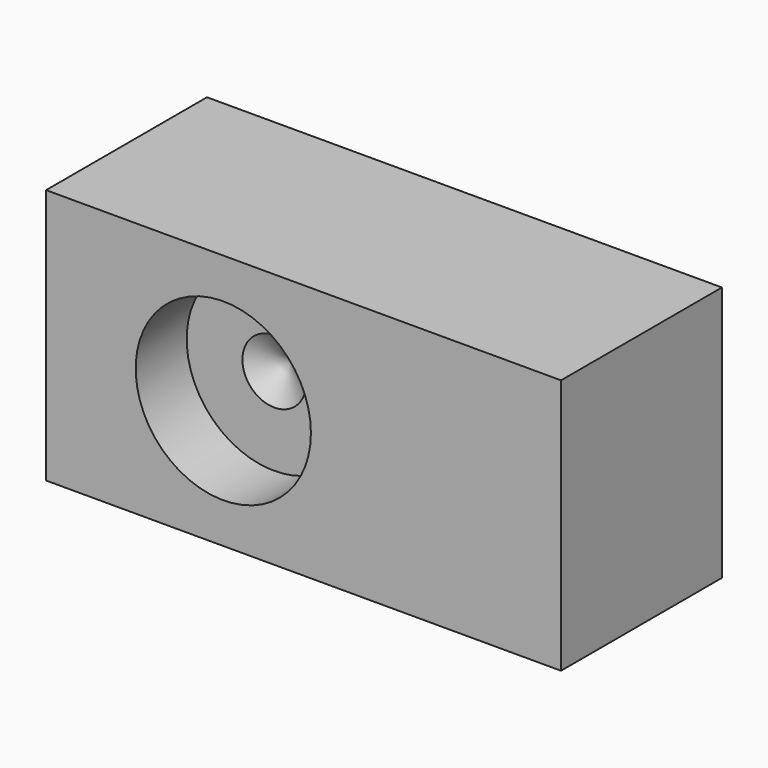
from build123d import *

# Parameters (mm, degrees)
F0_W           = 129.3
F0_H           = 64.2
F1_DEPTH       = 50.5
F3_D           = 16
F3_DEPTH       = 16
F3_CBORE_D     = 44
F3_CBORE_DEPTH = 16
F3_TIP         = 4.8068849522


with BuildPart() as f1:
    # F0 (on Front) → F1 (new body)
    with BuildSketch(Plane.XZ):
        with Locations((-31.8797686338, 21.3420945689)):
            Rectangle(F0_W, F0_H)
    extrude(amount=F1_DEPTH)

    # F3
    with Locations(Plane.XZ.offset(50.5)):
        with Locations((-52.0297686338, 21.3420945689)):
            CounterBoreHole(F3_D / 2, F3_CBORE_D / 2, F3_CBORE_DEPTH, depth=F3_DEPTH)
            with Locations((0, 0, -(F3_DEPTH + F3_TIP / 2))):  # 118° drill point
                Cone(0, F3_D / 2, F3_TIP, mode=Mode.SUBTRACT)


solid = f1.part
